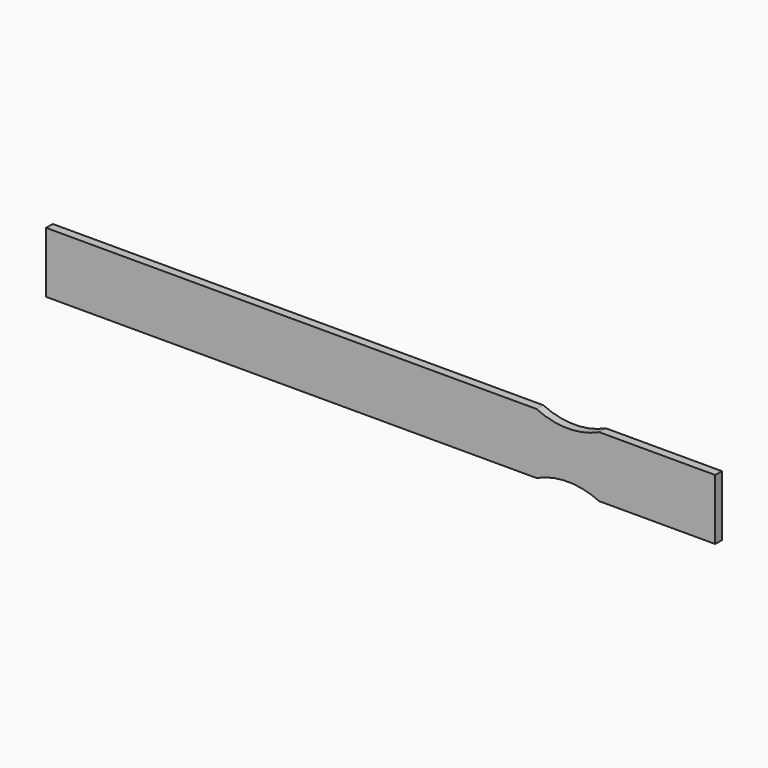
from build123d import *

# Parameters (mm, degrees)
F1_DEPTH = 3.81


with BuildPart() as f1:
    # F0 (on Front) → F1 (new body)
    with BuildSketch(Plane.XZ):
        with BuildLine():
            Line((0, 27.686), (0, 0))
            Line((0, 0), (223.393, 0))
            ThreePointArc((223.393, 0), (237.6805, 3.175), (251.968, 0))
            Line((251.968, 0), (304.8, 0))
            Line((304.8, 0), (304.8, 27.686))
            Line((304.8, 27.686), (251.968, 27.686))
            ThreePointArc((251.968, 27.686), (237.6805, 24.511), (223.393, 27.686))
            Line((223.393, 27.686), (0, 27.686))
        make_face()
    extrude(amount=F1_DEPTH)


solid = f1.part
